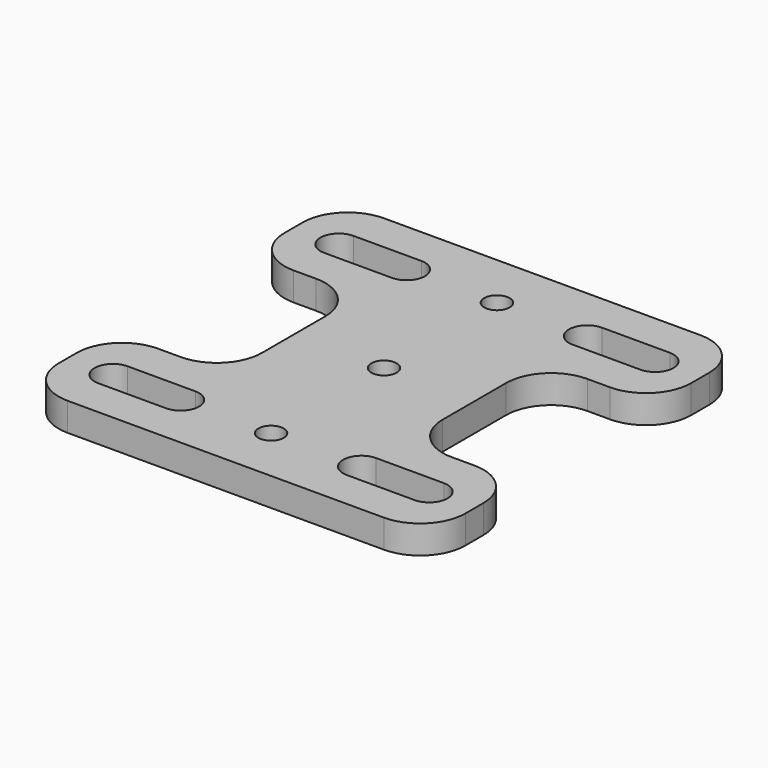
from build123d import *

# Parameters (mm, degrees)
F2_DEPTH       = 5
F3_D           = 4.5
F3_CSINK_D     = 8.5
F3_CSINK_ANGLE = 90
F4_R           = 8


with BuildPart() as f2:
    # F1 (on Top) → F2 (new body)
    with BuildSketch(Plane.XY):
        Polygon((36, 35), (-36, 35), (-36, 15), (-16, 15), (-16, -15), (-36, -15), (-36, -35), (36, -35), (36, -15), (16, -15), (16, 15), (36, 15), align=None)
        with BuildLine():
            ThreePointArc((-16, -21.75), (-13.701903, -22.701903), (-12.75, -25))
            ThreePointArc((-12.75, -25), (-13.701903, -27.298097), (-16, -28.25))
            Line((-16, -28.25), (-28, -28.25))
            ThreePointArc((-28, -28.25), (-31.25, -25), (-28, -21.75))
            Line((-28, -21.75), (-16, -21.75))
        make_face(mode=Mode.SUBTRACT)
        with BuildLine():
            ThreePointArc((16, -28.25), (12.75, -25), (16, -21.75))
            Line((16, -21.75), (28, -21.75))
            ThreePointArc((28, -21.75), (30.298097, -22.701903), (31.25, -25))
            ThreePointArc((31.25, -25), (30.298097, -27.298097), (28, -28.25))
            Line((28, -28.25), (16, -28.25))
        make_face(mode=Mode.SUBTRACT)
        with BuildLine():
            ThreePointArc((-16, 28.25), (-13.701903, 27.298097), (-12.75, 25))
            ThreePointArc((-12.75, 25), (-13.701903, 22.701903), (-16, 21.75))
            Line((-16, 21.75), (-28, 21.75))
            ThreePointArc((-28, 21.75), (-31.25, 25), (-28, 28.25))
            Line((-28, 28.25), (-16, 28.25))
        make_face(mode=Mode.SUBTRACT)
        with BuildLine():
            ThreePointArc((16, 21.75), (12.75, 25), (16, 28.25))
            Line((16, 28.25), (28, 28.25))
            ThreePointArc((28, 28.25), (30.298097, 27.298097), (31.25, 25))
            ThreePointArc((31.25, 25), (30.298097, 22.701903), (28, 21.75))
            Line((28, 21.75), (16, 21.75))
        make_face(mode=Mode.SUBTRACT)
    extrude(amount=F2_DEPTH)

    # F3 (through all)
    with Locations(Plane(origin=(0, 0, 0), x_dir=(1, 0, 0), z_dir=(0, 0, -1))):
        with Locations((0, 25), (0, 0), (0, -25)):
            CounterSinkHole(F3_D / 2, F3_CSINK_D / 2, counter_sink_angle=F3_CSINK_ANGLE)

    # F4
    f4_edges = [f2.edges().sort_by_distance(p)[0] for p in [
        (-36, 35, 2.5),
        (-36, -15, 2.5),
        (-36, -35, 2.5),
        (36, -15, 2.5),
        (36, -35, 2.5),
        (36, 15, 2.5),
        (36, 35, 2.5),
        (-16, -15, 2.5),
        (-16, 15, 2.5),
        (16, 15, 2.5),
        (16, -15, 2.5),
        (-36, 15, 2.5),
    ]]
    fillet(f4_edges, radius=F4_R)


solid = f2.part
